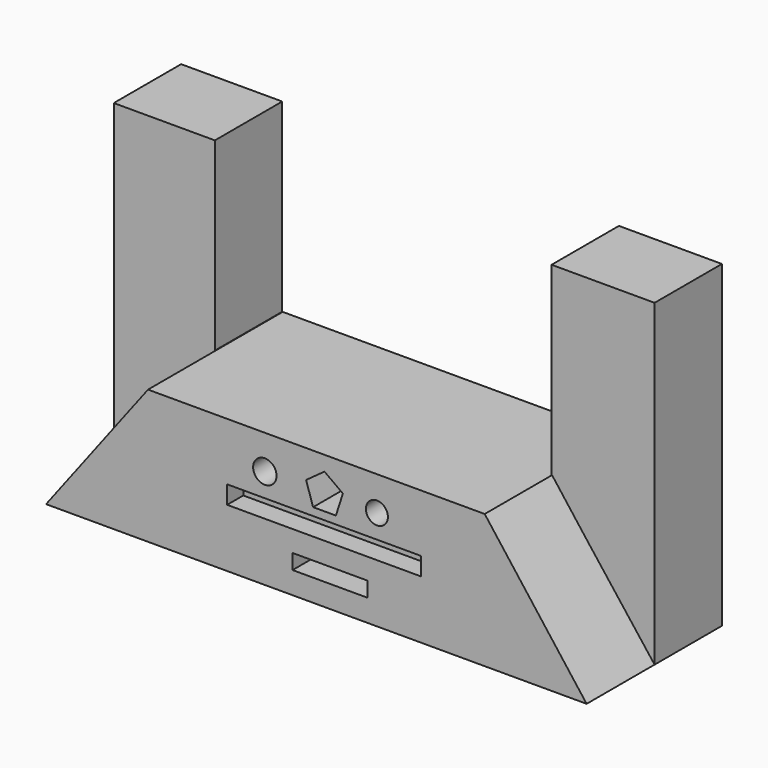
from build123d import *

# Parameters (mm, degrees)
F1_DEPTH = 50.8
F3_DEPTH = 25.4
F4_W     = 58.468216
F4_H     = 5.453941
F5_DEPTH = 6.096
F6_R     = 4.379023
F6_R_2   = 1.790502
F6_R_3   = 1.715079
F6_R_4   = 3.973674
F6_W     = 7.999114
F6_H     = 1.817981
F6_W_2   = 9.089913
F7_DEPTH = 23.114
F8_R     = 3.529881
F8_R_2   = 3.317504
F8_W     = 22.542965
F8_H     = 4.544951
F9_DEPTH = 25.4


with BuildPart() as f1:
    # F0 (on Front) → F1 (new body)
    with BuildSketch(Plane.XZ):
        Polygon((48.492239, 0), (-53.107761, 0), (-83.862998, -40.432109), (79.247475, -40.432109), align=None)
    extrude(amount=F1_DEPTH)

    # F2 (on Front) → F3 (join)
    with BuildSketch(Plane.XZ):
        Polygon((-83.75679, -40.292807), (-53.249381, 0), (-53.249381, 55.834316), (-83.75679, 55.834316), align=None)
        Polygon((48.34605, 55.834316), (48.34605, 0), (79.429068, -40.292807), (79.429068, 55.834316), align=None)
    extrude(amount=F3_DEPTH)

    # F4 (on face) → F5 (cut)
    with BuildSketch(Plane.XZ.offset(50.8)):
        with Locations((0, -20.114008)):
            Rectangle(F4_W, F4_H)
    extrude(amount=-F5_DEPTH, mode=Mode.SUBTRACT)

    # F6 (on face) → F7 (join)
    with BuildSketch(Plane.XZ.offset(50.8)):
        with Locations((0, -32.47628)):
            Circle(F6_R)
        with Locations((10.145307, -32.112684)):
            Circle(F6_R_2)
        with Locations((-9.670687, -32.294482)):
            Circle(F6_R_3)
        with Locations((0, -10.660506)):
            Circle(F6_R_4)
        with Locations((-18.396996, -11.569497)):
            Rectangle(F6_W, F6_H)
        with Locations((16.690036, -11.569497)):
            Rectangle(F6_W_2, F6_H)
    extrude(amount=-F7_DEPTH)

    # F8 (on face) → F9 (cut)
    with BuildSketch(Plane.XZ.offset(50.8)):
        Polygon((-3.287774, -15.02366), (3.580596, -15.02366), (5.703039, -8.491452), (0.146411, -4.454326), (-5.410217, -8.491452), align=None)
        with Locations((-17.851602, -10.29691)):
            Circle(F8_R)
        with Locations((15.962845, -10.29691)):
            Circle(F8_R_2)
        with Locations((1.782593, -31.476389)):
            Rectangle(F8_W, F8_H)
    extrude(amount=-F9_DEPTH, mode=Mode.SUBTRACT)


solid = f1.part
